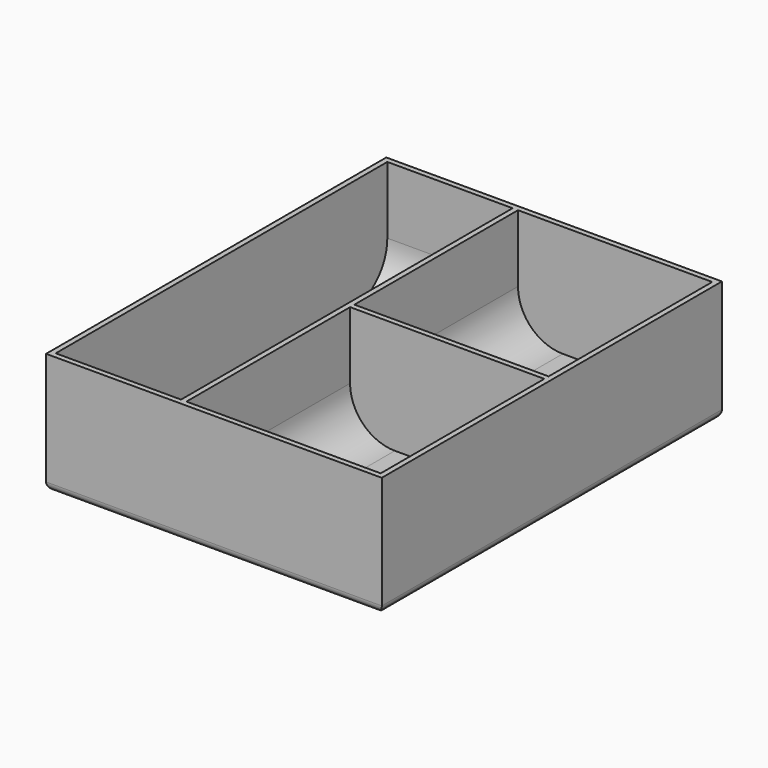
from build123d import *

# Parameters (mm, degrees)
SKETCH011_W             = 75
SKETCH011_H             = 95
PAD007_DEPTH            = 1
SKETCH012_W             = 75
SKETCH012_H             = 95
SKETCH012_W_2           = 28
SKETCH012_H_2           = 92.6
SKETCH012_W_3           = 43.4
SKETCH012_H_3           = 45.7
PAD008_DEPTH            = 25
FILLET010_R             = 10
FILLET011_R             = 1.8
BODY003_PLACEMENT_ANGLE = 90


with BuildPart() as part:
    # Sketch011 → Pad007 (new body, symmetric)
    with BuildSketch(Plane.XZ):
        Rectangle(SKETCH011_W, SKETCH011_H)
    extrude(amount=PAD007_DEPTH, both=True)

    # Sketch012 → Pad008 (join)
    with BuildSketch(Plane.XZ.offset(1)):
        Rectangle(SKETCH012_W, SKETCH012_H)
        with Locations((-22.3, 0)):
            Rectangle(SKETCH012_W_2, SKETCH012_H_2, mode=Mode.SUBTRACT)
        with Locations((14.6, 23.45)):
            Rectangle(SKETCH012_W_3, SKETCH012_H_3, mode=Mode.SUBTRACT)
        with Locations((14.6, -23.45)):
            Rectangle(SKETCH012_W_3, SKETCH012_H_3, mode=Mode.SUBTRACT)
    extrude(amount=PAD008_DEPTH)

    # Fillet010
    fillet010_edges = [part.edges().sort_by_distance(p)[0] for p in [
        (36.3, -1, 23.45),
        (36.3, -1, -23.45),
        (-22.3, -1, 46.3),
        (-7.1, -1, 23.45),
        (-7.1, -1, -23.45),
        (-22.3, -1, -46.3),
    ]]
    fillet(fillet010_edges, radius=FILLET010_R)

    # Fillet011
    fillet011_edges = [part.edges().sort_by_distance(p)[0] for p in [
        (0, 1, 47.5),
        (37.5, 1, 0),
        (0, 1, -47.5),
        (-37.5, 1, 0),
    ]]
    fillet(fillet011_edges, radius=FILLET011_R)


with BuildPart() as part_1:
    # Body003 placement: moved
    add(part.part.rotate(Axis((0, 0, 0), (-1, 0, 0)), BODY003_PLACEMENT_ANGLE))


solid = part_1.part
